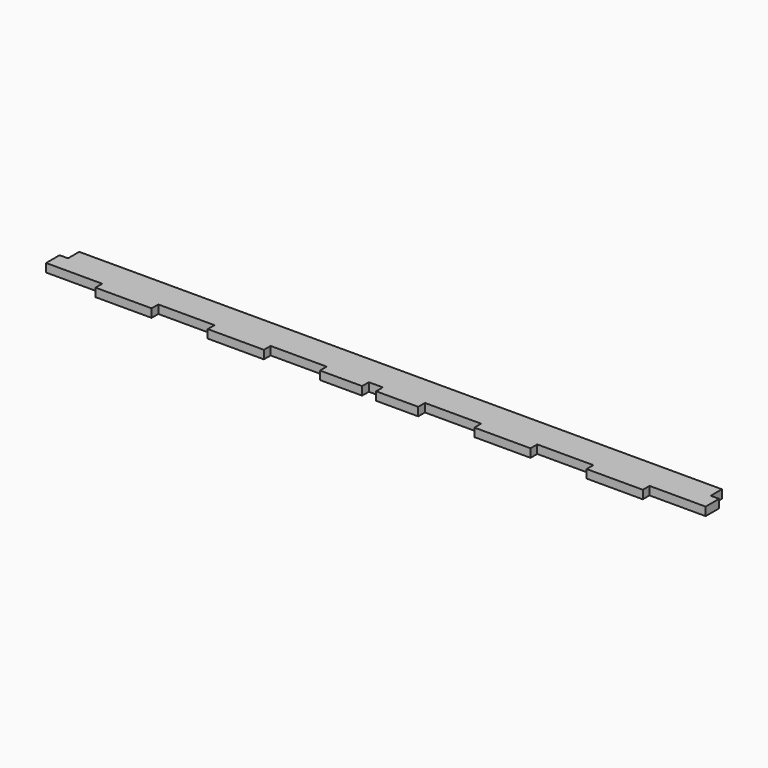
from build123d import *

# Parameters (mm, degrees)
F1_DEPTH = 3


with BuildPart() as f1:
    # F0 (on Top) → F1 (new body)
    with BuildSketch(Plane.XY):
        Polygon((-117.5, -5), (-117.5, -11), (-97.5, -11), (-97.5, -14), (-77.5, -14), (-77.5, -11), (-57.5, -11), (-57.5, -14), (-37.5, -14), (-37.5, -11), (-17.5, -11), (-17.5, -14), (-2.5, -14), (-2.5, -11), (2.5, -11), (2.5, -14), (17.5, -14), (17.5, -11), (37.5, -11), (37.5, -14), (57.5, -14), (57.5, -11), (77.5, -11), (77.5, -14), (97.5, -14), (97.5, -11), (117.5, -11), (117.5, -5), (114.5, -5), (114.5, 0), (-114.5, 0), (-114.5, -5), align=None)
    extrude(amount=F1_DEPTH)


solid = f1.part
